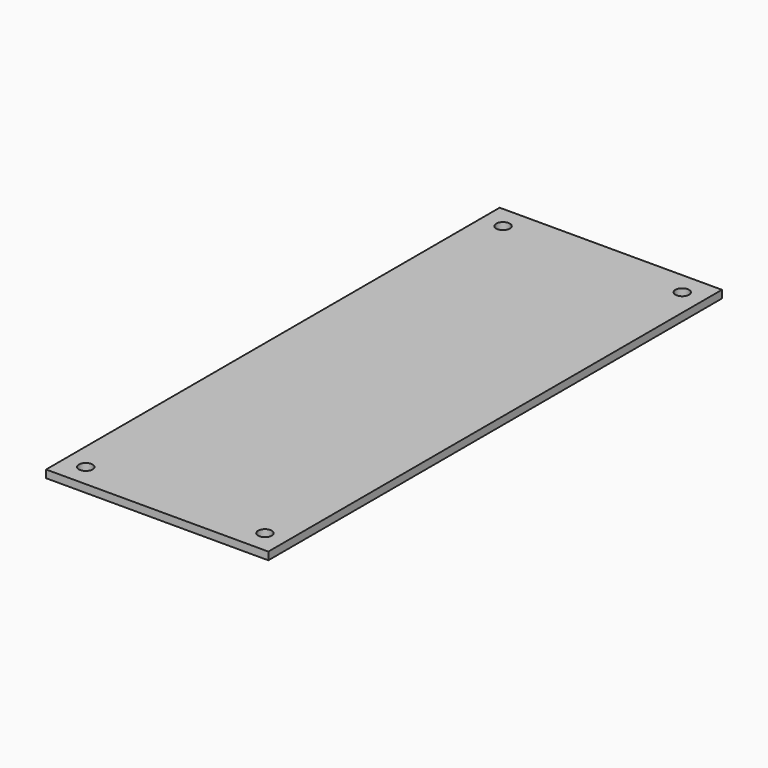
from build123d import *

# Parameters (mm, degrees)
F0_R     = 1.5
F1_DEPTH = 1.7


with BuildPart() as f1:
    # F0 (on Top) → F1 (new body)
    with BuildSketch(Plane.XY):
        Polygon((-24.5, 62.5), (-24.5, 0), (-24.5, -62.5), (0, -62.5), (24.5, -62.5), (24.5, 0), (24.5, 62.5), (0, 62.5), align=None)
        with Locations((-19.75, -57.5)):
            Circle(F0_R, mode=Mode.SUBTRACT)
        with Locations((19.75, -57.5)):
            Circle(F0_R, mode=Mode.SUBTRACT)
        with Locations((-19.75, 57.5)):
            Circle(F0_R, mode=Mode.SUBTRACT)
        with Locations((19.75, 57.5)):
            Circle(F0_R, mode=Mode.SUBTRACT)
    extrude(amount=F1_DEPTH)


solid = f1.part
